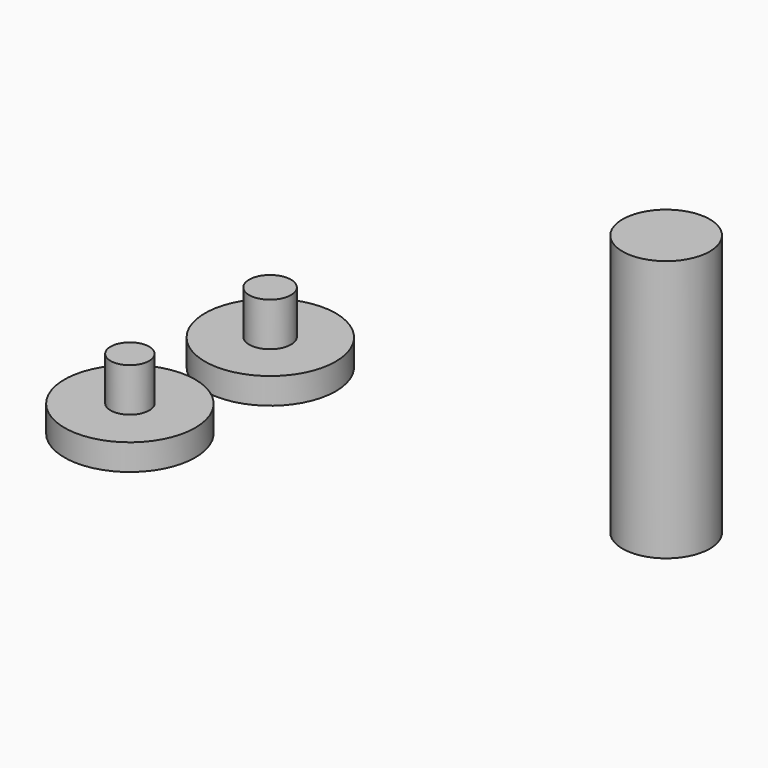
from build123d import *

# Parameters (mm, degrees)
F0_R     = 19.05
F1_DEPTH = 7.62
F2_R     = 12.7
F3_DEPTH = 76.2
F5_R     = 6.093414
F5_R_2   = 5.628032
F6_DEPTH = 12.7


with BuildPart() as f1:
    # F0 (on Top) → F1 (new body)
    with BuildSketch(Plane.XY):
        with Locations((-121.203709, 7.419322)):
            Circle(F0_R)
        with Locations((-125.756985, -38.015233)):
            Circle(F0_R)
    extrude(amount=F1_DEPTH)


with BuildPart() as f3:
    # F2 (on Top) → F3 (new body)
    with BuildSketch(Plane.XY):
        Circle(F2_R)
    extrude(amount=F3_DEPTH)


with BuildPart() as f6:
    # F5 (on offset) → F6 (new body)
    with BuildSketch(Plane.XY.offset(7.62)):
        with Locations((-121.404257, 7.579375)):
            Circle(F5_R)
        with Locations((-125.859246, -37.878152)):
            Circle(F5_R_2)
    extrude(amount=F6_DEPTH)


solid = Compound([f1.part, f3.part, f6.part])
